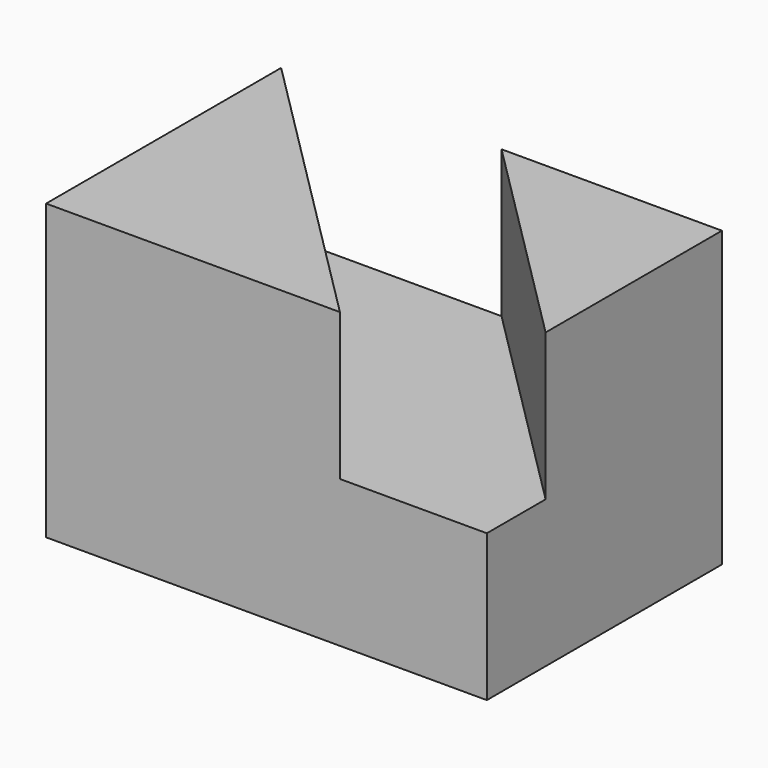
from build123d import *

# Parameters (mm, degrees)
F0_W     = 38.1
F0_H     = 25.4
F1_DEPTH = 25.4
F2_W     = 12.7
F2_H     = 12.7
F3_DEPTH = 6.35
F5_DEPTH = 12.7


with BuildPart() as f1:
    # F0 (on Front) → F1 (new body)
    with BuildSketch(Plane.XZ):
        with Locations((19.05, 12.7)):
            Rectangle(F0_W, F0_H)
    extrude(amount=F1_DEPTH)

    # F2 (on face) → F3 (cut)
    with BuildSketch(Plane.XZ.offset(25.4)):
        with Locations((31.75, 19.05)):
            Rectangle(F2_W, F2_H)
    extrude(amount=-F3_DEPTH, mode=Mode.SUBTRACT)

    # F4 (on face) → F5 (cut)
    with BuildSketch(Plane.XY.offset(25.4)):
        Polygon((0, 0), (25.4, -25.4), (25.4, -19.05), (38.1, -19.05), (19.05, 0), align=None)
    extrude(amount=-F5_DEPTH, mode=Mode.SUBTRACT)


solid = f1.part
